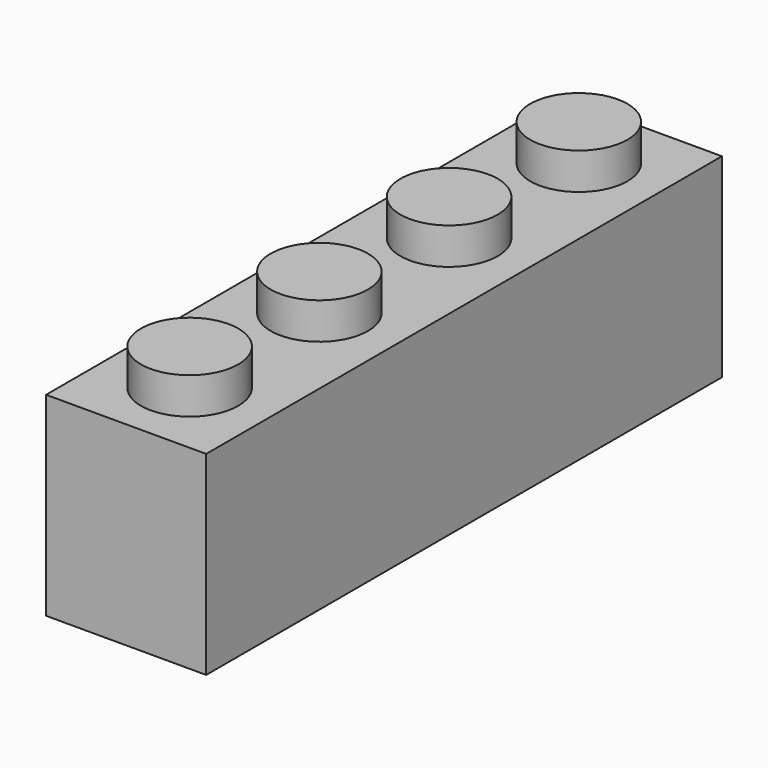
from build123d import *

# Parameters (mm, degrees)
F0_W     = 200.66
F0_H     = 807.72
F1_DEPTH = 243.84
F2_R     = 60.96
F3_DEPTH = 45.72
F4_W     = 139.7
F4_H     = 746.76
F5_DEPTH = 213.36


with BuildPart() as f1:
    # F0 (on Top) → F1 (new body)
    with BuildSketch(Plane.XY):
        with Locations((-0.261474, 252.359729)):
            Rectangle(F0_W, F0_H)
    extrude(amount=F1_DEPTH)

    # F2 (on face) → F3 (join)
    with BuildSketch(Plane.XY.offset(243.84)):
        with Locations((0, -52.440616)):
            Circle(F2_R)
        with Locations((0, 150.759384)):
            Circle(F2_R)
        with Locations((0, 353.959384)):
            Circle(F2_R)
        with Locations((0, 557.159384)):
            Circle(F2_R)
    extrude(amount=F3_DEPTH)

    # F4 (on face) → F5 (cut)
    with BuildSketch(Plane(origin=(0, 0, 0), x_dir=(1, 0, 0), z_dir=(0, 0, -1))):
        with Locations((-0.261474, -252.359729)):
            Rectangle(F4_W, F4_H)
    extrude(amount=-F5_DEPTH, mode=Mode.SUBTRACT)


solid = f1.part
